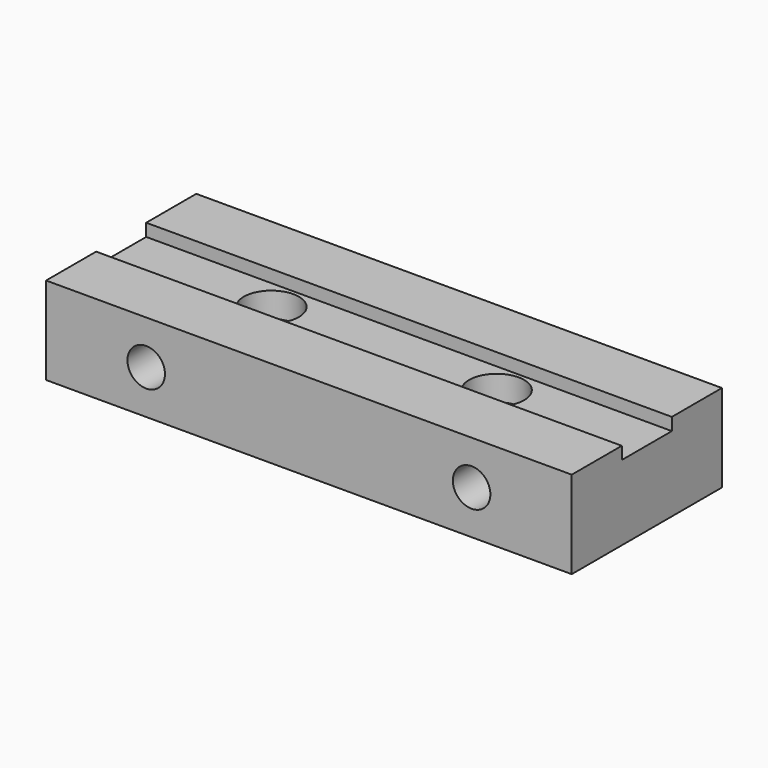
from build123d import *

# Parameters (mm, degrees)
F0_W           = 42
F0_H           = 15
F1_DEPTH       = 3.5
F2_W           = 42
F2_H           = 5
F3_DEPTH       = 1
F5_D           = 4.4
F5_CBORE_D     = 8.25
F5_CBORE_DEPTH = 4
F6_R           = 1.5
F7_DEPTH       = 15.001


with BuildPart() as f1:
    # F0 (on Top) → F1 (new body, symmetric)
    with BuildSketch(Plane.XY):
        Rectangle(F0_W, F0_H)
    extrude(amount=F1_DEPTH, both=True)

    # F2 (on face) → F3 (cut)
    with BuildSketch(Plane.XY.offset(3.5)):
        Rectangle(F2_W, F2_H)
    extrude(amount=-F3_DEPTH, mode=Mode.SUBTRACT)

    # F5 (through all)
    with Locations(Plane(origin=(0, 0, -3.5), x_dir=(1, 0, 0), z_dir=(0, 0, -1))):
        with Locations((9, 0), (-9, 0)):
            CounterBoreHole(F5_D / 2, F5_CBORE_D / 2, F5_CBORE_DEPTH)

    # F6 (on face) → F7 (cut, through all)
    with BuildSketch(Plane(origin=(0, 7.5, 0), x_dir=(-1, 0, 0), z_dir=(0, 1, 0))):
        with Locations((-13, 0)):
            Circle(F6_R)
        with Locations((13, 0)):
            Circle(F6_R)
    extrude(amount=-F7_DEPTH, mode=Mode.SUBTRACT)


solid = f1.part
